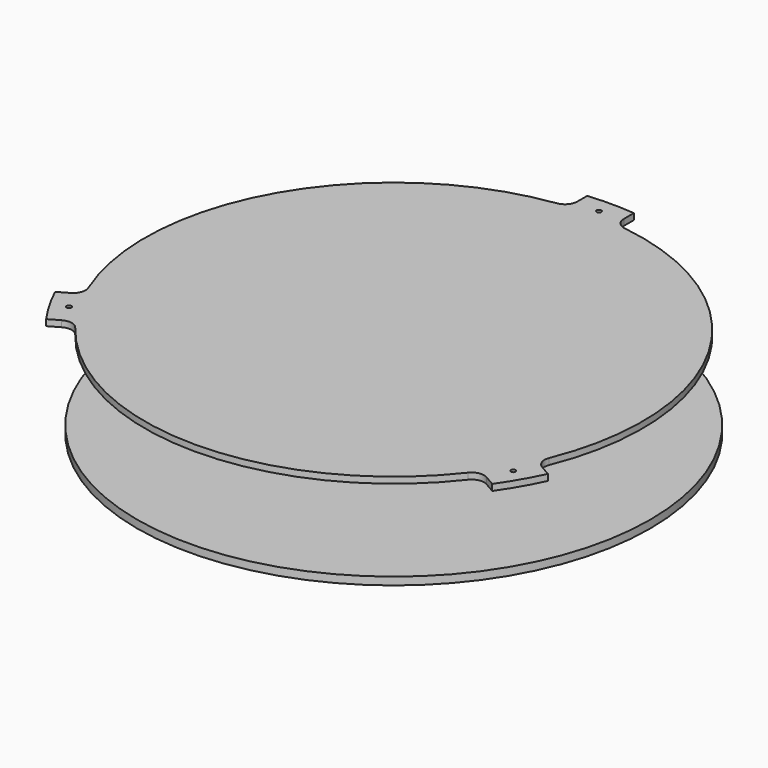
from build123d import *

# Parameters (mm, degrees)
F0_R     = 165
F1_DEPTH = 5
F3_R     = 1.5
F3_R_2   = 4
F4_DEPTH = 4


with BuildPart() as f1:
    # F0 (on Top) → F1 (new body)
    with BuildSketch(Plane.XY):
        Circle(F0_R)
    extrude(amount=F1_DEPTH)


with BuildPart() as f4:
    # F3 (on offset) → F4 (new body)
    with BuildSketch(Plane.XY.offset(55)):
        with BuildLine():
            Line((136.622344, -96.199455), (143.496689, -100.16836))
            ThreePointArc((143.496689, -100.16836), (151.554446, -87.5), (158.496689, -74.187598))
            Line((158.496689, -74.187598), (151.622344, -70.218693))
            ThreePointArc((151.622344, -70.218693), (148.055218, -65.886371), (148.211756, -60.276657))
            ThreePointArc((148.211756, -60.276657), (138.564065, 80), (21.904762, 158.493474))
            ThreePointArc((21.904762, 158.493474), (16.968338, 161.162765), (15, 166.418148))
            Line((15, 166.418148), (15, 174.355958))
            ThreePointArc((15, 174.355958), (0, 175), (-15, 174.355958))
            Line((-15, 174.355958), (-15, 166.418148))
            ThreePointArc((-15, 166.418148), (-16.968338, 161.162765), (-21.904762, 158.493474))
            ThreePointArc((-21.904762, 158.493474), (-138.564065, 80), (-148.211756, -60.276657))
            ThreePointArc((-148.211756, -60.276657), (-148.055218, -65.886371), (-151.622344, -70.218693))
            Line((-151.622344, -70.218693), (-158.496689, -74.187598))
            ThreePointArc((-158.496689, -74.187598), (-151.554446, -87.5), (-143.496689, -100.16836))
            Line((-143.496689, -100.16836), (-136.622344, -96.199455))
            ThreePointArc((-136.622344, -96.199455), (-131.08688, -95.276394), (-126.306994, -98.216817))
            ThreePointArc((-126.306994, -98.216817), (0, -160), (126.306994, -98.216817))
            ThreePointArc((126.306994, -98.216817), (131.08688, -95.276394), (136.622344, -96.199455))
        make_face()
        with Locations((-142.894192, -82.5)):
            Circle(F3_R, mode=Mode.SUBTRACT)
        with Locations((142.894192, -82.5)):
            Circle(F3_R, mode=Mode.SUBTRACT)
        with Locations((0, 165)):
            Circle(F3_R_2, mode=Mode.SUBTRACT)
        with Locations((0, 165)):
            Circle(F3_R_2)
        with Locations((0, 165)):
            Circle(F3_R, mode=Mode.SUBTRACT)
    extrude(amount=F4_DEPTH)


solid = Compound([f1.part, f4.part])
